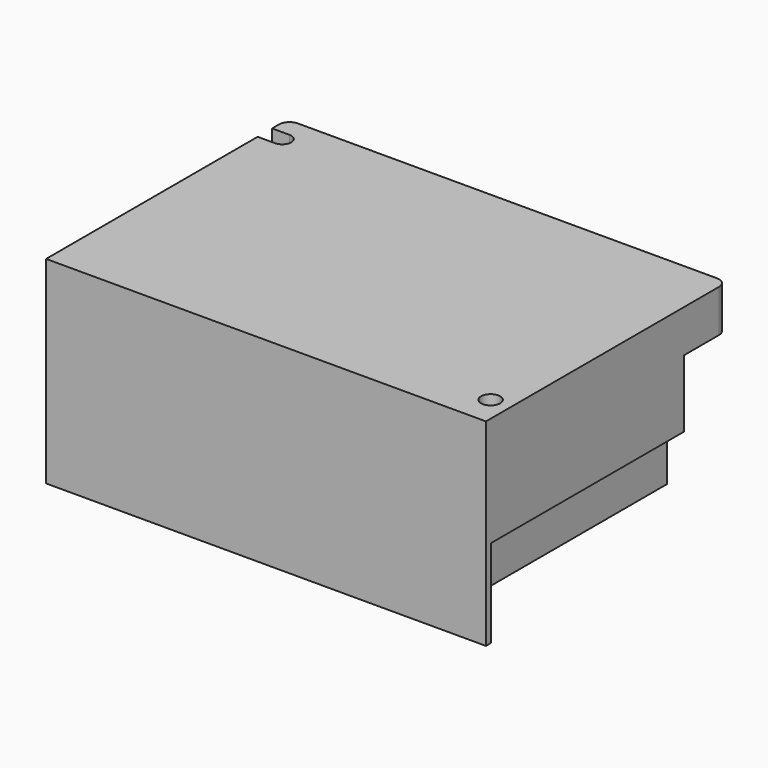
from build123d import *

# Parameters (mm, degrees)
F0_R     = 1.85
F1_DEPTH = 38.2
F2_W     = 2
F2_H     = 30
F3_DEPTH = 11.7


with BuildPart() as f1:
    # F0 (on Top) → F1 (new body)
    with BuildSketch(Plane.XY):
        with BuildLine():
            ThreePointArc((42.5, 27.15), (41.914214, 28.564214), (40.5, 29.15))
            Line((40.5, 29.15), (-40.5, 29.15))
            ThreePointArc((-40.5, 29.15), (-41.914214, 28.564214), (-42.5, 27.15))
            Line((-42.5, 27.15), (-42.5, 25.45))
            Line((-42.5, 25.45), (-39.15, 25.45))
            ThreePointArc((-39.15, 25.45), (-37.4, 23.7), (-39.15, 21.95))
            Line((-39.15, 21.95), (-42.5, 21.95))
            Line((-42.5, 21.95), (-42.5, -29.15))
            Line((-42.5, -29.15), (42.5, -29.15))
            Line((42.5, -29.15), (42.5, 27.15))
        make_face()
        with Locations((38.65, -23.2)):
            Circle(F0_R, mode=Mode.SUBTRACT)
    extrude(amount=F1_DEPTH)

    # F2 (on face) → F3 (cut)
    with BuildSketch(Plane.YZ.offset(42.5)):
        Polygon((-27.95, 17), (-27.95, 0), (27.15, 0), (27.15, 30), (18.65, 30), (18.65, 17), align=None)
        with Locations((28.15, 15)):
            Rectangle(F2_W, F2_H)
    extrude(amount=-F3_DEPTH, mode=Mode.SUBTRACT)


solid = f1.part
